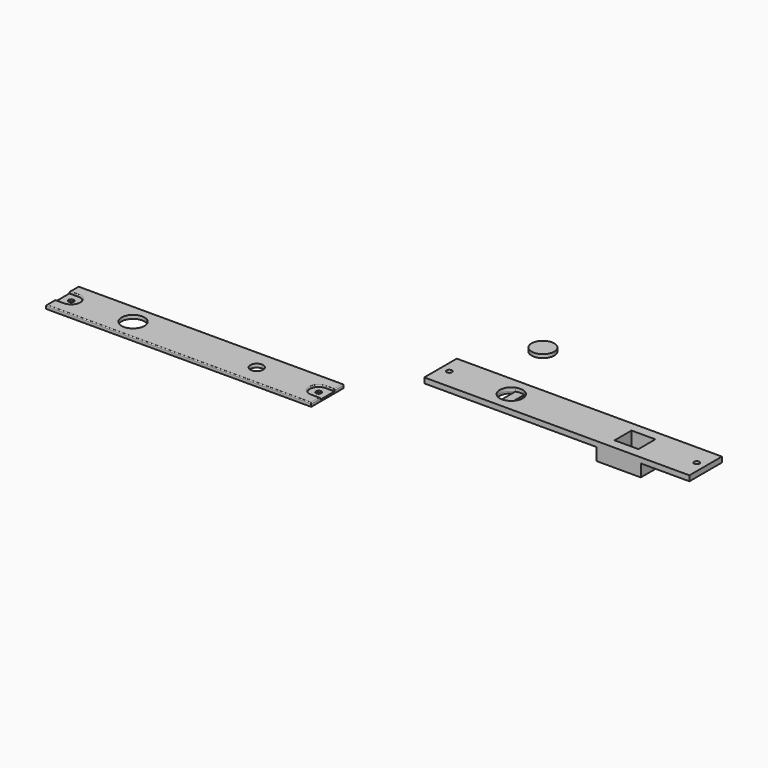
from build123d import *

# Parameters (mm, degrees)
F0_W      = 150
F0_H      = 23
F0_R      = 1.5
F0_W_2    = 8
F0_H_2    = 12
F1_DEPTH  = 3
F2_W      = 150
F2_H      = 23
F2_R      = 1.5
F2_R_2    = 3.6
F3_DEPTH  = 2
F4_W      = 25
F4_H      = 23
F5_DEPTH  = 7
F6_W      = 13.5
F6_H      = 12
F7_DEPTH  = 9
F8_R      = 6.5
F9_DEPTH  = 2
F10_R     = 6.4
F11_DEPTH = 2
F13_DEPTH = 1
F14_R     = 0.5


with BuildPart() as f1:
    # F0 (on Top) → F1 (new body)
    with BuildSketch(Plane.XY):
        Rectangle(F0_W, F0_H)
        with Locations((-70, 0)):
            Circle(F0_R, mode=Mode.SUBTRACT)
        with BuildLine():
            ThreePointArc((-32.5, 6), (-29.5916730868, 3.6055512755), (-28.5, 0))
            ThreePointArc((-28.5, 0), (-29.5916730868, -3.6055512755), (-32.5, -6))
            ThreePointArc((-32.5, -6), (-35, -6.5), (-37.5, -6))
            ThreePointArc((-37.5, -6), (-41.5, 0), (-37.5, 6))
            ThreePointArc((-37.5, 6), (-35, 6.5), (-32.5, 6))
        make_face(mode=Mode.SUBTRACT)
        Polygon((41.75, 6), (41.75, -6), (39, -6), (31, -6), (28.25, -6), (28.25, 6), (31, 6), (39, 6), align=None, mode=Mode.SUBTRACT)
        with Locations((70, 0)):
            Circle(F0_R, mode=Mode.SUBTRACT)
        with Locations((35, 0)):
            Rectangle(F0_W_2, F0_H_2)
        with BuildLine():
            Line((-32.5, -6), (-32.5, 6))
            ThreePointArc((-32.5, 6), (-35, 6.5), (-37.5, 6))
            Line((-37.5, 6), (-37.5, -6))
            ThreePointArc((-37.5, -6), (-35, -6.5), (-32.5, -6))
        make_face()
    extrude(amount=F1_DEPTH)

    # F4 (on face) + F0 (on Top) → F5 (join)
    with BuildSketch(Plane(origin=(0, 0, 0), x_dir=(1, 0, 0), z_dir=(0, 0, -1))):
        with Locations((35, 0)):
            Rectangle(F4_W, F4_H)
        Polygon((41.75, 6), (41.75, -6), (39, -6), (31, -6), (28.25, -6), (28.25, 6), (31, 6), (39, 6), align=None, mode=Mode.SUBTRACT)
    with BuildSketch(Plane.XY):
        with Locations((35, 0)):
            Rectangle(F0_W_2, F0_H_2)
    extrude(amount=F5_DEPTH, dir=(0, 0, -1))

    # F6 (on face) → F7 (cut)
    with BuildSketch(Plane.XY.offset(3)):
        with Locations((35, 0)):
            Rectangle(F6_W, F6_H)
    extrude(amount=-F7_DEPTH, mode=Mode.SUBTRACT)

    # F8 (on face) → F9 (cut)
    with BuildSketch(Plane.XY.offset(3)):
        with Locations((-35, 0)):
            Circle(F8_R)
    extrude(amount=-F9_DEPTH, mode=Mode.SUBTRACT)


with BuildPart() as f3:
    # F2 (on Top) → F3 (new body)
    with BuildSketch(Plane.XY):
        with Locations((-174.9800115824, -48.7408889234)):
            Rectangle(F2_W, F2_H)
        with Locations((-244.9800115824, -48.7408889234)):
            Circle(F2_R, mode=Mode.SUBTRACT)
        with BuildLine():
            ThreePointArc((-207.4800115824, -42.7408889234), (-204.5716846692, -45.1353376479), (-203.4800115824, -48.7408889234))
            ThreePointArc((-203.4800115824, -48.7408889234), (-204.5716846692, -52.3464401989), (-207.4800115824, -54.7408889234))
            ThreePointArc((-207.4800115824, -54.7408889234), (-209.9800115824, -55.2408889234), (-212.4800115824, -54.7408889234))
            ThreePointArc((-212.4800115824, -54.7408889234), (-216.4800115824, -48.7408889234), (-212.4800115824, -42.7408889234))
            ThreePointArc((-212.4800115824, -42.7408889234), (-209.9800115824, -42.2408889234), (-207.4800115824, -42.7408889234))
        make_face(mode=Mode.SUBTRACT)
        with Locations((-139.9800115824, -48.7408889234)):
            Circle(F2_R_2, mode=Mode.SUBTRACT)
        with Locations((-104.9800115824, -48.7408889234)):
            Circle(F2_R, mode=Mode.SUBTRACT)
    extrude(amount=F3_DEPTH)

    # F12 (on face) → F13 (cut)
    with BuildSketch(Plane.XY.offset(2)):
        with BuildLine():
            ThreePointArc((-244.9800115824, -53.7408889234), (-241.4444776764, -52.2764228293), (-239.9800115824, -48.7408889234))
            ThreePointArc((-239.9800115824, -48.7408889234), (-241.4444776764, -45.2053550175), (-244.9800115824, -43.7408889234))
            ThreePointArc((-244.9800115824, -43.7408889234), (-249.9800115824, -48.7408889234), (-244.9800115824, -53.7408889234))
        make_face()
        with BuildLine():
            ThreePointArc((-244.9800115824, -53.7408889234), (-249.9800115824, -48.7408889234), (-244.9800115824, -43.7408889234))
            Line((-244.9800115824, -43.7408889234), (-252.4800115824, -43.7408889234))
            Line((-252.4800115824, -43.7408889234), (-252.4800115824, -53.7408889234))
            Line((-252.4800115824, -53.7408889234), (-244.9800115824, -53.7408889234))
        make_face()
        with BuildLine():
            ThreePointArc((-104.9800115824, -53.7408889234), (-101.4444776764, -52.2764228293), (-99.9800115824, -48.7408889234))
            ThreePointArc((-99.9800115824, -48.7408889234), (-101.4444776764, -45.2053550175), (-104.9800115824, -43.7408889234))
            ThreePointArc((-104.9800115824, -43.7408889234), (-109.9800115824, -48.7408889234), (-104.9800115824, -53.7408889234))
        make_face()
        with BuildLine():
            ThreePointArc((-104.9800115824, -43.7408889234), (-101.4444776764, -45.2053550175), (-99.9800115824, -48.7408889234))
            ThreePointArc((-99.9800115824, -48.7408889234), (-101.4444776764, -52.2764228293), (-104.9800115824, -53.7408889234))
            Line((-104.9800115824, -53.7408889234), (-97.4800115824, -53.7408889234))
            Line((-97.4800115824, -53.7408889234), (-97.4800115824, -43.7408889234))
            Line((-97.4800115824, -43.7408889234), (-104.9800115824, -43.7408889234))
        make_face()
    extrude(amount=-F13_DEPTH, mode=Mode.SUBTRACT)

    # F14
    f14_edges = [f3.edges().sort_by_distance(p)[0] for p in [
        (-174.980012, -37.240889, 2),
        (-249.980012, -40.490889, 2),
        (-247.480012, -43.740889, 2),
        (-249.980012, -56.990889, 2),
        (-174.980012, -60.240889, 2),
        (-99.980012, -56.990889, 2),
        (-102.480012, -53.740889, 2),
        (-99.980012, -40.490889, 2),
    ]]
    fillet(f14_edges, radius=F14_R)


with BuildPart() as f11:
    # F10 (on Top) → F11 (new body)
    with BuildSketch(Plane.XY):
        with Locations((-53.158197552, 45.0928770006)):
            Circle(F10_R)
    extrude(amount=F11_DEPTH)


solid = Compound([f1.part, f3.part, f11.part])
